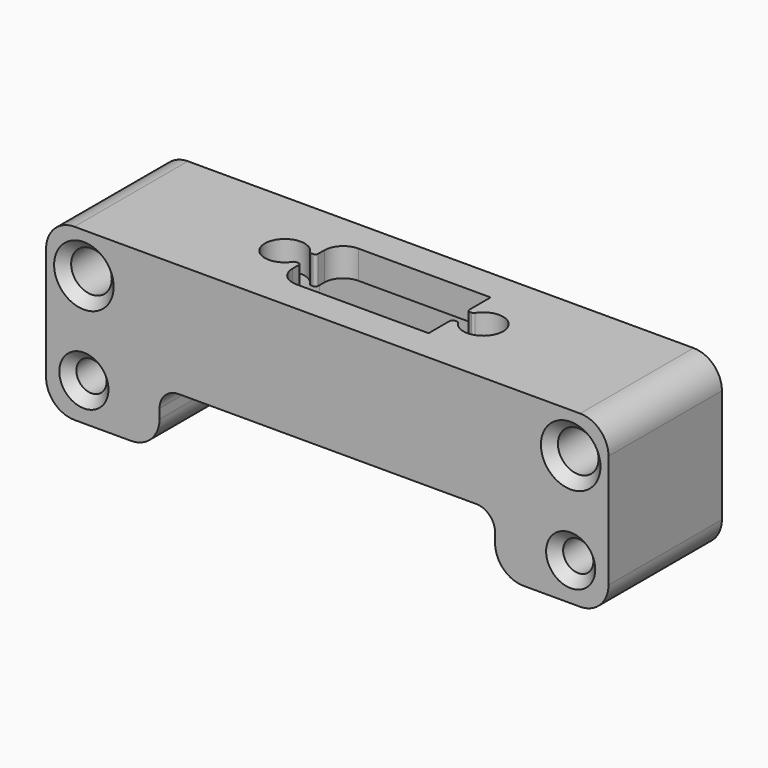
from build123d import *

# Parameters (mm, degrees)
SKETCH015_R     = 2.15
SKETCH015_R_2   = 1.6
PAD005_DEPTH    = 15
FILLET003_R     = 3
FILLET004_R     = 2
CHAMFER007_SIZE = 1
SKETCH016_R     = 2.1
SKETCH016_W     = 16
SKETCH016_H     = 8.2
POCKET008_DEPTH = 18.001
POCKET009_DEPTH = 9
FILLET005_R     = 2
POCKET010_DEPTH = 18.001
FILLET006_R     = 0.3


with BuildPart() as part:
    # Sketch015 (on Face1 of Binder001) → Pad005 (new body)
    with BuildSketch(Plane(origin=(1.2e-05, -73, 0), x_dir=(1, 0, 0), z_dir=(0, -1, 0))):
        Polygon((-29.75, 93), (-29.75, 111), (29.75, 111), (29.75, 93), (17.75, 93), (17.75, 99), (-17.75, 99), (-17.75, 93), align=None)
        with Locations((-25.75, 106.751)):
            Circle(SKETCH015_R, mode=Mode.SUBTRACT)
        with Locations((-25.75, 97)):
            Circle(SKETCH015_R_2, mode=Mode.SUBTRACT)
        with Locations((25.75, 97)):
            Circle(SKETCH015_R_2, mode=Mode.SUBTRACT)
        with Locations((25.75, 106.751)):
            Circle(SKETCH015_R, mode=Mode.SUBTRACT)
    extrude(amount=PAD005_DEPTH)

    # Fillet003
    fillet003_edges = [part.edges().sort_by_distance(p)[0] for p in [
        (-29.749986, -80.500005, 111),
        (29.750014, -80.499995, 111),
        (-29.749986, -80.500005, 93),
        (-17.749986, -80.500003, 93),
        (17.750014, -80.499997, 93),
        (29.750014, -80.499995, 93),
    ]]
    fillet(fillet003_edges, radius=FILLET003_R)

    # Fillet004
    fillet004_edges = [part.edges().sort_by_distance(p)[0] for p in [
        (-17.749986, -80.500003, 99),
        (17.750014, -80.499997, 99),
    ]]
    fillet(fillet004_edges, radius=FILLET004_R)

    # Chamfer007
    chamfer007_edges = [part.edges().sort_by_distance(p)[0] for p in [
        (23.600012, -72.999996, 106.751),
        (24.150012, -72.999996, 97),
        (-27.349988, -73.000005, 97),
        (-27.899988, -73.000005, 106.751),
        (24.150015, -87.999996, 97),
        (23.600015, -87.999996, 106.751),
        (-27.899985, -88.000005, 106.751),
        (-27.349985, -88.000005, 97),
    ]]
    chamfer(chamfer007_edges, length=CHAMFER007_SIZE)

    # Sketch016 (on Face15 of Chamfer007) → Pocket008 (cut, through all)
    with BuildSketch(Plane.XY.offset(111)):
        with Locations((-10.5, -80.5)):
            Circle(SKETCH016_R)
        with Locations((10.5, -80.5)):
            Circle(SKETCH016_R)
        with Locations((0, -80.5)):
            Rectangle(SKETCH016_W, SKETCH016_H)
    extrude(amount=-POCKET008_DEPTH, mode=Mode.SUBTRACT)

    # Sketch017 (on Face6 of Pocket008) → Pocket009 (cut)
    with BuildSketch(Plane(origin=(0, 0, 99), x_dir=(1, 0, 0), z_dir=(0, 0, -1))):
        with BuildLine():
            ThreePointArc((-10.5, 85.1), (-15.1, 80.5), (-10.5, 75.9))
            Line((-10.5, 75.9), (10.5, 75.9))
            ThreePointArc((10.5, 75.9), (15.1, 80.5), (10.5, 85.1))
            Line((10.5, 85.1), (-10.5, 85.1))
        make_face()
    extrude(amount=-POCKET009_DEPTH, mode=Mode.SUBTRACT)

    # Fillet005
    fillet005_edges = [part.edges().sort_by_distance(p)[0] for p in [
        (-8, -76.4, 109.5),
        (-8, -84.6, 109.5),
    ]]
    fillet(fillet005_edges, radius=FILLET005_R)

    # Sketch018 (on Face1 of Fillet005) → Pocket010 (cut, through all)
    with BuildSketch(Plane.XY.offset(111)):
        with BuildLine():
            ThreePointArc((-10.5, -79.5), (-11.5, -80.5), (-10.5, -81.5))
            Line((-10.5, -81.5), (10.5, -81.5))
            ThreePointArc((10.5, -81.5), (11.5, -80.5), (10.5, -79.5))
            Line((10.5, -79.5), (-10.5, -79.5))
        make_face()
    extrude(amount=-POCKET010_DEPTH, mode=Mode.SUBTRACT)

    # Fillet006
    fillet006_edges = [part.edges().sort_by_distance(p)[0] for p in [
        (-8, -79.5, 109.5),
        (-8.653381, -79.5, 109.5),
        (-8, -81.5, 109.5),
        (-8.653381, -81.5, 109.5),
        (8.653381, -79.5, 109.5),
        (8, -79.5, 109.5),
        (8.653381, -81.5, 109.5),
        (8, -81.5, 109.5),
    ]]
    fillet(fillet006_edges, radius=FILLET006_R)


solid = part.part
